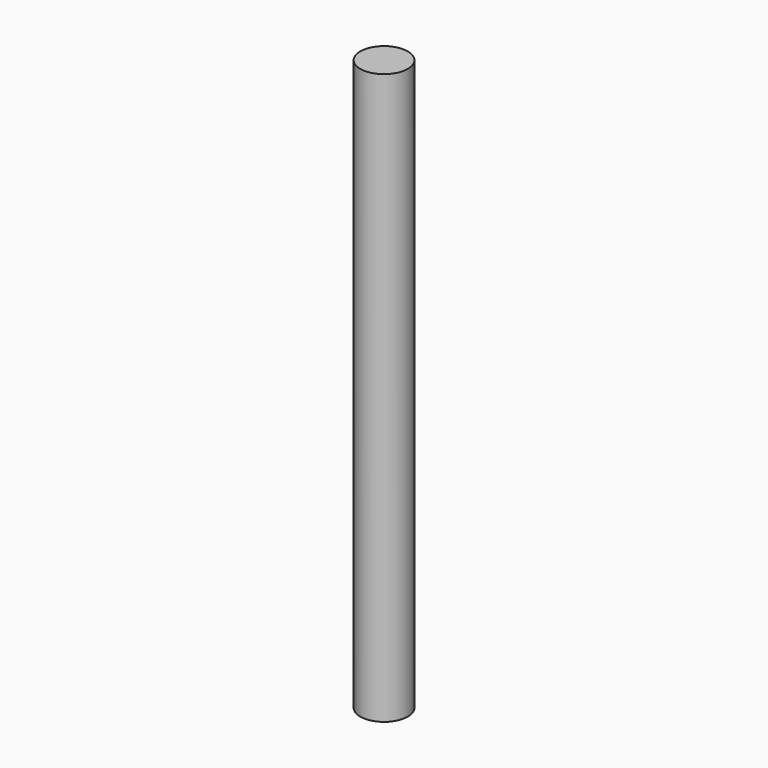
from build123d import *

# Parameters (mm, degrees)
SKETCH_R  = 5
PAD_DEPTH = 120


with BuildPart() as part:
    # Sketch → Pad (new body)
    with BuildSketch(Plane.XY):
        Circle(SKETCH_R)
    extrude(amount=PAD_DEPTH)


solid = part.part
